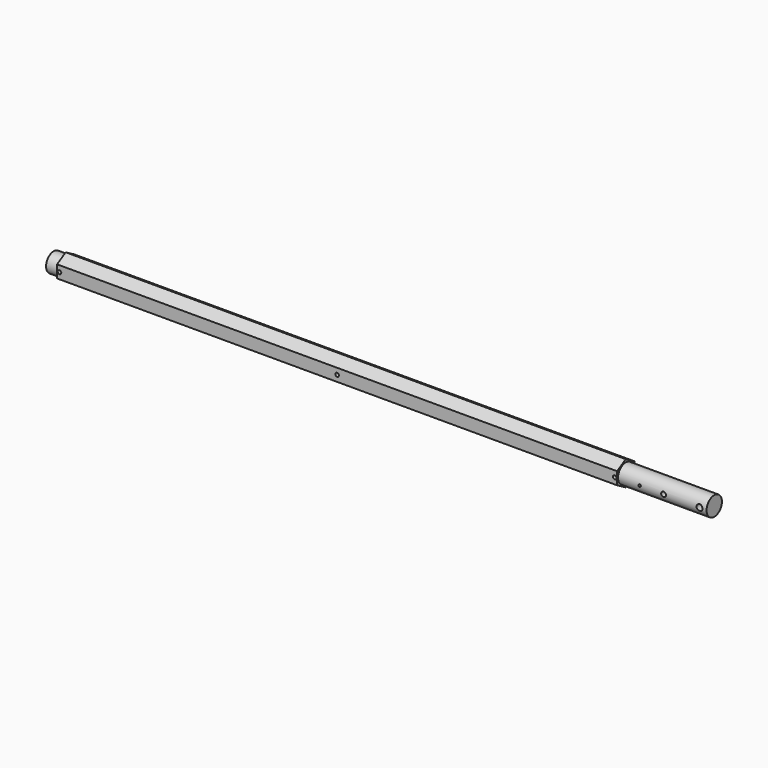
from build123d import *

# Parameters (mm, degrees)
PAD_DEPTH     = 371.475
SKETCH001_R   = 12.7
PAD001_DEPTH  = 117.475
SKETCH002_R   = 12.7
PAD002_DEPTH  = 15.875
SKETCH003_R   = 2.38125
SKETCH003_R_2 = 1.5875
SKETCH003_R_3 = 3.96875
SKETCH003_R_4 = 3.175
POCKET_DEPTH  = 50.8


with BuildPart() as part:
    # Sketch → Pad (new body, symmetric)
    with BuildSketch(Plane.YZ):
        Polygon((14.2875, -8.248892), (14.2875, 8.248892), (0, 16.497784), (-14.2875, 8.248892), (-14.2875, -8.248892), (0, -16.497784), align=None)
    extrude(amount=PAD_DEPTH, both=True)

    # Sketch001 (on Face8 of Pad) → Pad001 (join)
    with BuildSketch(Plane.YZ.offset(371.475)):
        Circle(SKETCH001_R)
    extrude(amount=PAD001_DEPTH)

    # Sketch002 (on Face4 of Pad001) → Pad002 (join)
    with BuildSketch(Plane(origin=(-371.475, 0, 0), x_dir=(0, 1, 0), z_dir=(-1, 0, 0))):
        Circle(SKETCH002_R)
    extrude(amount=PAD002_DEPTH)

    # Sketch003 (on Face8 of Pad002) → Pocket (cut)
    with BuildSketch(Plane(origin=(0, -14.2875, 0), x_dir=(0, 0, -1), z_dir=(0, -1, 0))):
        Circle(SKETCH003_R)
        with Locations((0, 368.3)):
            Circle(SKETCH003_R)
        with Locations((0, -368.3)):
            Circle(SKETCH003_R)
        with Locations((0, 400.05)):
            Circle(SKETCH003_R_2)
        with Locations((0, 479.425)):
            Circle(SKETCH003_R_3)
        with Locations((0, 431.8)):
            Circle(SKETCH003_R_4)
    extrude(amount=-POCKET_DEPTH, mode=Mode.SUBTRACT)


solid = part.part
